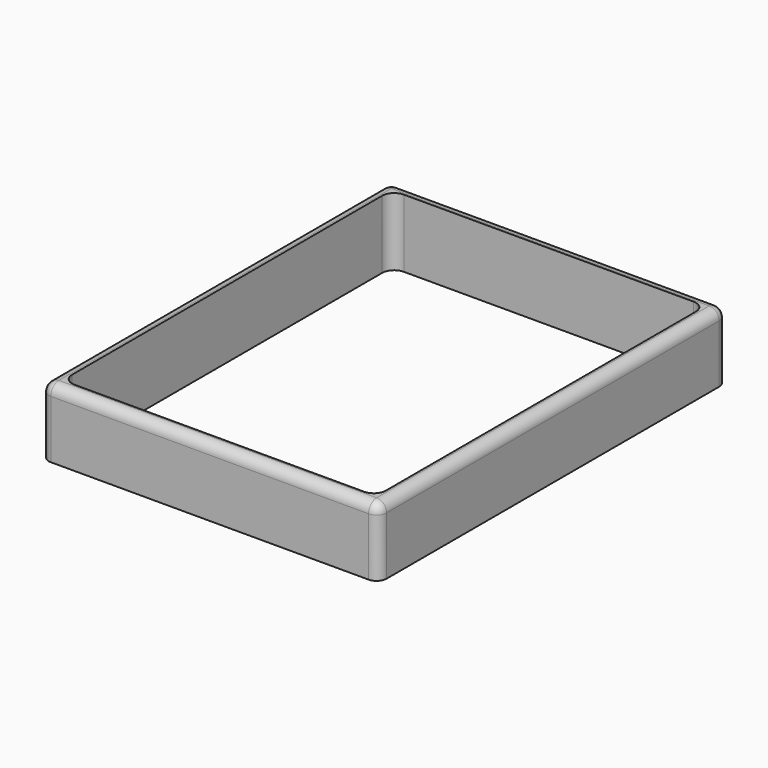
from build123d import *

# Parameters (mm, degrees)
SKETCH014_W   = 84.5
SKETCH014_H   = 109
SKETCH014_W_2 = 78.5
SKETCH014_H_2 = 103
PAD006_DEPTH  = 17
FILLET002_R   = 3
FILLET004_R   = 2.5


with BuildPart() as part:
    # Sketch014 → Pad006 (new body)
    with BuildSketch(Plane.XY):
        with Locations((4.75, 6.5)):
            Rectangle(SKETCH014_W, SKETCH014_H)
        with Locations((4.75, 6.5)):
            Rectangle(SKETCH014_W_2, SKETCH014_H_2, mode=Mode.SUBTRACT)
    extrude(amount=-PAD006_DEPTH)

    # Fillet002
    fillet002_edges = [part.edges().sort_by_distance(p)[0] for p in [
        (-34.5, 58, -8.5),
        (-34.5, -45, -8.5),
        (44, 58, -8.5),
        (44, -45, -8.5),
    ]]
    fillet(fillet002_edges, radius=FILLET002_R)

    # Fillet004
    fillet004_edges = [part.edges().sort_by_distance(p)[0] for p in [
        (47, 61, -8.5),
        (-37.5, 61, -8.5),
        (47, -48, -8.5),
        (-37.5, -48, -8.5),
        (-37.5, 6.5, 0),
        (4.75, -48, 0),
        (47, 6.5, 0),
        (4.75, 61, 0),
    ]]
    fillet(fillet004_edges, radius=FILLET004_R)


with BuildPart() as part_1:
    # Body005 placement: moved
    add(part.part.moved(Location((0, 0, 4.5))))


solid = part_1.part
